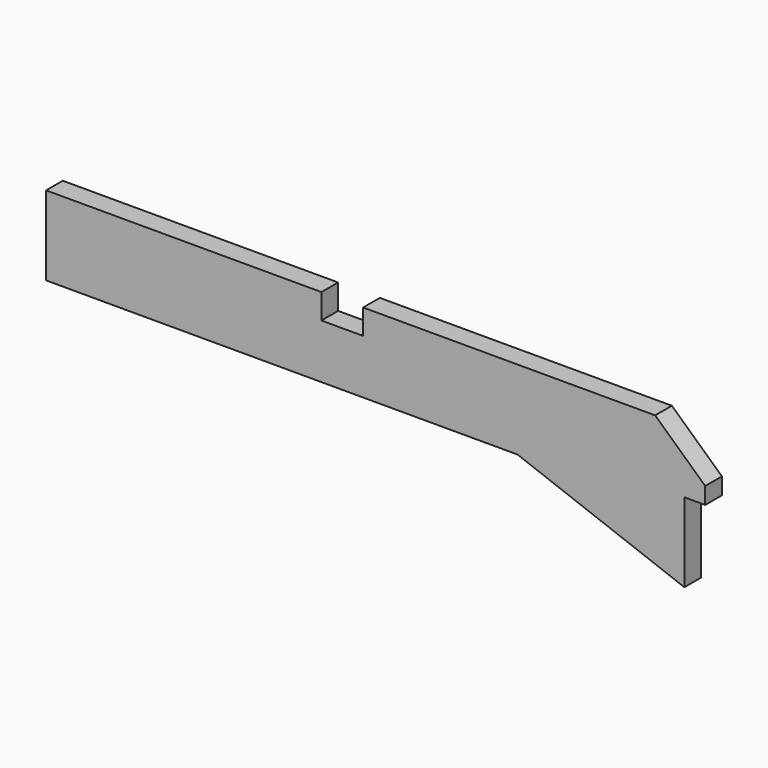
from build123d import *

# Parameters (mm, degrees)
F1_DEPTH = 25


with BuildPart() as f1:
    # F0 (on Front) → F1 (new body)
    with BuildSketch(Plane.XZ):
        Polygon((0, 95), (0, 0), (565, 0), (765, 0), (765, 20), (790, 20), (790, 40), (730, 95), (380, 95), (380, 65), (330, 65), (330, 95), align=None)
        Polygon((765, 0), (565, 0), (765, -75), align=None)
    extrude(amount=F1_DEPTH)


solid = f1.part
